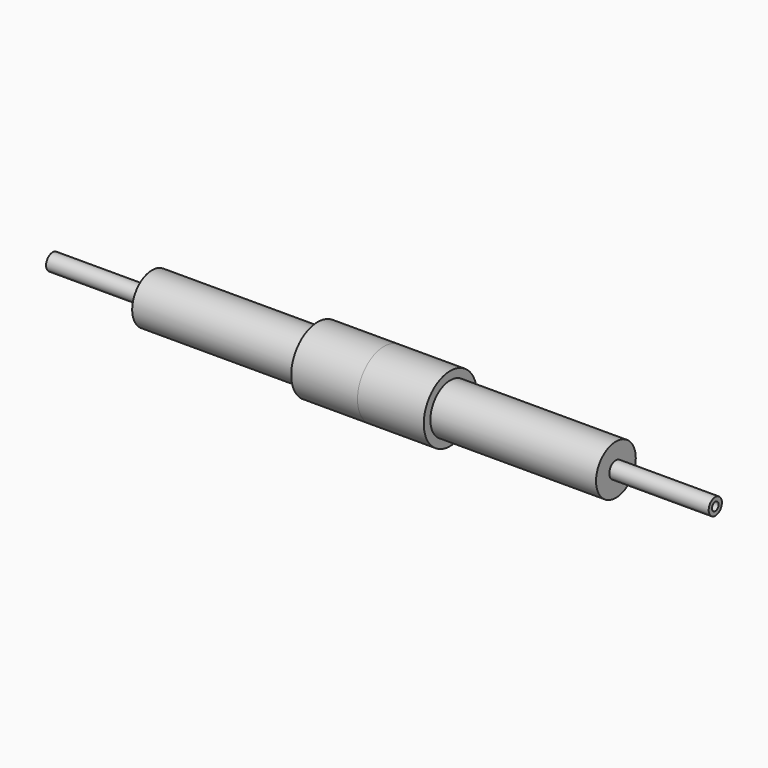
from build123d import *

# Parameters (mm, degrees)
F0_W   = 50
F0_H   = 5
F0_W_2 = 30
F0_H_2 = 1.25
F0_W_3 = 20


with BuildPart() as f1:
    # F0 (on Top) → F1 (revolve)
    with BuildSketch(Plane.XY):
        with Locations((45, 5)):
            Rectangle(F0_W, F0_H)
        Polygon((0, 10), (0, 2.5), (20, 2.5), (20, 7.5), (20, 10), align=None)
        with Locations((85, 1.875)):
            Rectangle(F0_W_2, F0_H_2)
        with Locations((45, 1.875)):
            Rectangle(F0_W, F0_H_2)
        with Locations((10, 1.875)):
            Rectangle(F0_W_3, F0_H_2)
    revolve(axis=Axis((28.8916006684, 0, 0), (1, 0, 0)))

    # F2: F1 across face


with BuildPart() as f1_1:
    add(f1.part)
    add(f1.part.mirror(Plane(origin=(0, 0, 0), x_dir=(0, -1, 0), z_dir=(-1, 0, 0))))


solid = f1_1.part
